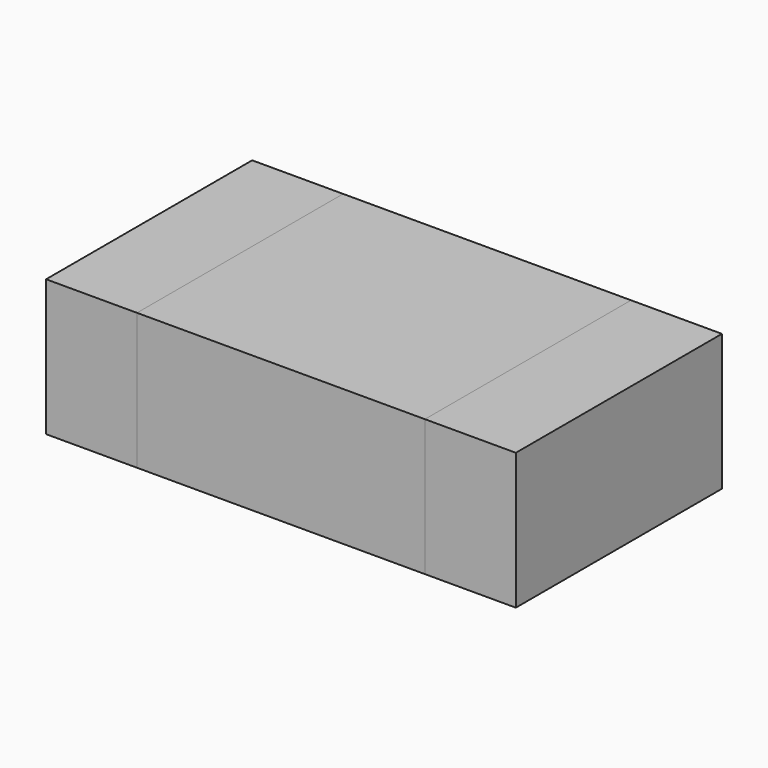
from build123d import *

# Parameters (mm, degrees)
BOX_W        = 0.3
BOX_H        = 0.85
BOX_DEPTH    = 0.45
BOX001_W     = 0.95
BOX001_H     = 0.85
BOX001_DEPTH = 0.45
BOX002_W     = 0.3
BOX002_H     = 0.85
BOX002_DEPTH = 0.45


with BuildPart() as pad001:
    # Box → Box (new body)
    with BuildSketch(Plane.XY):
        with Locations((0.15, 0.425)):
            Rectangle(BOX_W, BOX_H)
    extrude(amount=BOX_DEPTH)


with BuildPart() as corpo:
    # Box001 → Box001 (new body)
    with BuildSketch(Plane(origin=(0.3, 0, 0), x_dir=(1, 0, 0), z_dir=(0, 0, 1))):
        with Locations((0.475, 0.425)):
            Rectangle(BOX001_W, BOX001_H)
    extrude(amount=BOX001_DEPTH)


with BuildPart() as pad002:
    # Box002 → Box002 (new body)
    with BuildSketch(Plane(origin=(1.25, 0, 0), x_dir=(1, 0, 0), z_dir=(0, 0, 1))):
        with Locations((0.15, 0.425)):
            Rectangle(BOX002_W, BOX002_H)
    extrude(amount=BOX002_DEPTH)


solid = Compound([pad001.part, corpo.part, pad002.part])
